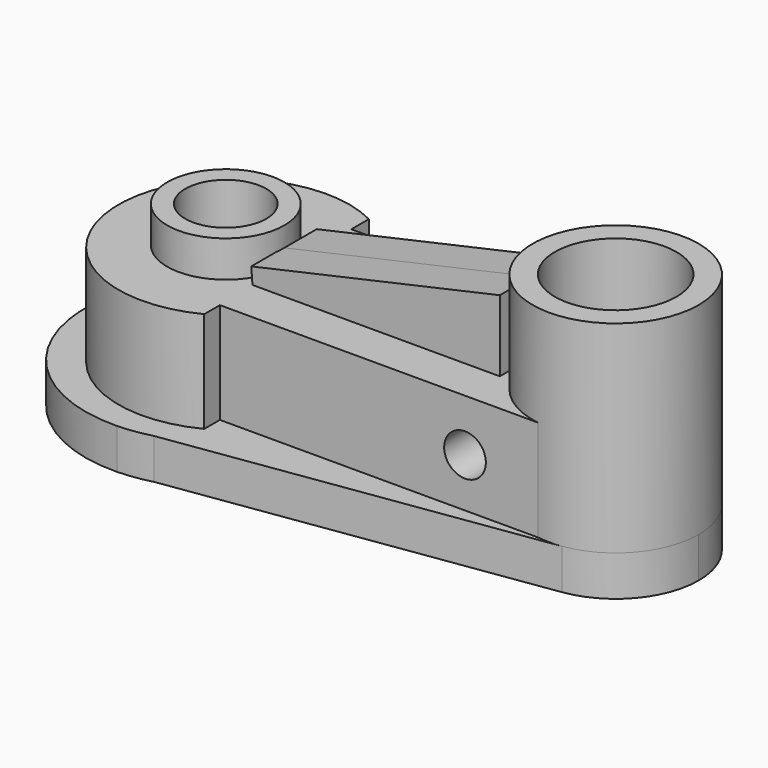
from build123d import *

# Parameters (mm, degrees)
F1_DEPTH  = 10
F2_R      = 20.544015
F2_R_2    = 15.040593
F3_DEPTH  = 50
F4_R      = 14.488721
F4_R_2    = 10.031756
F5_DEPTH  = 34
F6_R      = 14.488721
F7_DEPTH  = 25
F9_DEPTH  = 10
F10_DEPTH = 10
F11_R     = 5.158933
F12_DEPTH = 111


with BuildPart() as f1:
    # F0 (on Top) → F1 (new body)
    with BuildSketch(Plane.XY):
        with BuildLine():
            Line((-39.147847, 33.522529), (-47.351296, 34.720521))
            ThreePointArc((-47.351296, 34.720521), (-82.964216, 0), (-47.351296, -34.720521))
            Line((-47.351296, -34.720521), (-39.147847, -33.522529))
            ThreePointArc((-39.147847, -33.522529), (-20.647944, -21.104089), (-13.500812, 0))
            ThreePointArc((-13.500812, 0), (-20.647944, 21.104089), (-39.147847, 33.522529))
        make_face()
        with BuildLine():
            ThreePointArc((-39.147847, 33.522529), (-43.213698, 34.367173), (-47.351296, 34.720521))
            Line((-47.351296, 34.720521), (-39.147847, 33.522529))
        make_face()
        with BuildLine():
            Line((-39.147847, -33.522529), (-47.351296, -34.720521))
            ThreePointArc((-47.351296, -34.720521), (-43.213698, -34.367173), (-39.147847, -33.522529))
        make_face()
        with BuildLine():
            Line((51.201175, 20.328394), (-39.147847, 33.522529))
            ThreePointArc((-39.147847, 33.522529), (-20.647944, 21.104089), (-13.500812, 0))
            ThreePointArc((-13.500812, 0), (-20.647944, -21.104089), (-39.147847, -33.522529))
            Line((-39.147847, -33.522529), (51.201175, -20.328394))
            ThreePointArc((51.201175, -20.328394), (27.6885, 0), (51.201175, 20.328394))
        make_face()
        with BuildLine():
            ThreePointArc((68.776529, 0), (63.773505, 13.4363), (51.201175, 20.328394))
            ThreePointArc((51.201175, 20.328394), (27.6885, 0), (51.201175, -20.328394))
            ThreePointArc((51.201175, -20.328394), (63.773505, -13.4363), (68.776529, 0))
        make_face()
    extrude(amount=F1_DEPTH)

    # F2 (on face) → F3 (join)
    with BuildSketch(Plane.XY.offset(10)):
        with Locations((48.232514, 0)):
            Circle(F2_R)
        with Locations((48.232514, 0)):
            Circle(F2_R_2, mode=Mode.SUBTRACT)
    extrude(amount=F3_DEPTH)

    # F4 (on face) → F5 (join)
    with BuildSketch(Plane.XY.offset(10)):
        with Locations((-48.232514, 0)):
            Circle(F4_R)
        with Locations((-48.232514, 0)):
            Circle(F4_R_2, mode=Mode.SUBTRACT)
    extrude(amount=F5_DEPTH)

    # F6 (on face) → F7 (join)
    with BuildSketch(Plane.XY.offset(10)):
        with BuildLine():
            ThreePointArc((45.263854, -20.328394), (27.6885, 0), (45.263854, 20.328394))
            Line((45.263854, 20.328394), (-33.441719, 20.328394))
            Line((-33.441719, 20.328394), (-33.441719, 25.753783))
            ThreePointArc((-33.441719, 25.753783), (-75.007655, 0.297732), (-33.441719, -25.15832))
            Line((-33.441719, -25.15832), (-33.441719, -20.328394))
            Line((-33.441719, -20.328394), (45.263854, -20.328394))
        make_face()
        with Locations((-48.232514, 0)):
            Circle(F6_R, mode=Mode.SUBTRACT)
    extrude(amount=F7_DEPTH)

    # F8 (on Front) → F9 (join)
    with BuildSketch(Plane.XZ):
        Polygon((-33.939343, 39.076511), (-33.623908, 35.133567), (27.570603, 35.133567), (27.570603, 52.797958), align=None)
    extrude(amount=F9_DEPTH)

    # F9_face (on face) → F10 (join)
    with BuildSketch(Plane(origin=(3.374239, 0, 41.26714), x_dir=(1, 0, 0), z_dir=(0, 1, 0))):
        Polygon((-37.118032, 4.635003), (-37.118032, 2.147007), (24.196365, -11.530818), (24.196365, 6.133574), (-36.998146, 6.133574), align=None)
    extrude(amount=F10_DEPTH)

    # F11 (on face) → F12 (cut)
    with BuildSketch(Plane.XZ.offset(20.328394)):
        with Locations((27.217189, 22.096535)):
            Circle(F11_R)
    extrude(amount=-F12_DEPTH, mode=Mode.SUBTRACT)


solid = f1.part
